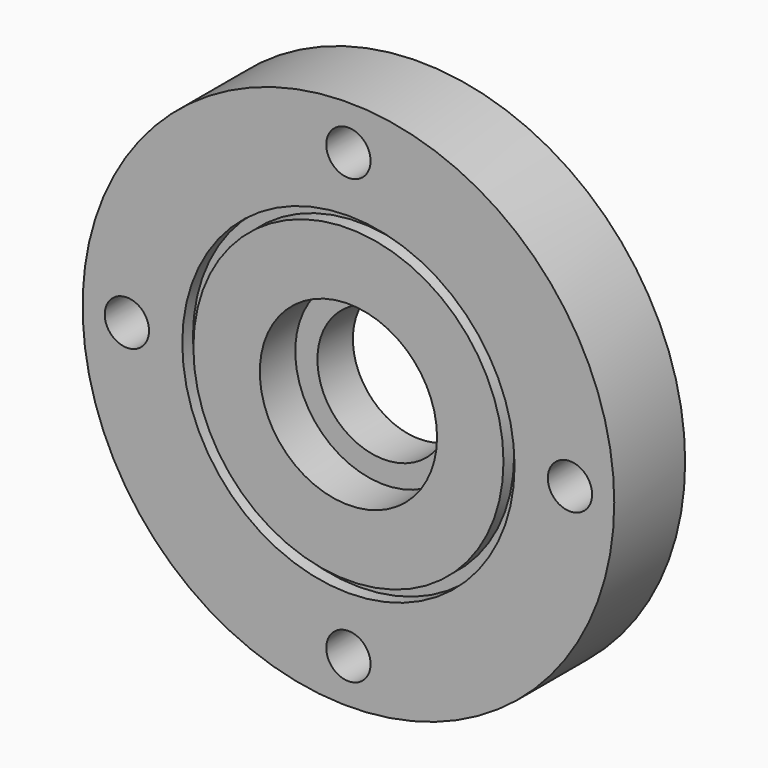
from build123d import *

# Parameters (mm, degrees)
F0_R           = 38.1
F0_R_2         = 9.525
F1_DEPTH       = 12.7
F2_R           = 12.7
F2_R_2         = 9.525
F3_DEPTH       = 6.35
F5_D           = 3.175
F5_CBORE_D     = 6.35
F5_CBORE_DEPTH = 6.35
F6_R           = 23.8125
F6_R_2         = 22.225
F7_DEPTH       = 1.905


with BuildPart() as f1:
    # F0 (on Front) → F1 (new body)
    with BuildSketch(Plane.XZ):
        Circle(F0_R)
        Circle(F0_R_2, mode=Mode.SUBTRACT)
    extrude(amount=F1_DEPTH)

    # F2 (on face) → F3 (cut)
    with BuildSketch(Plane.XZ.offset(12.7)):
        Circle(F2_R)
        Circle(F2_R_2, mode=Mode.SUBTRACT)
    extrude(amount=-F3_DEPTH, mode=Mode.SUBTRACT)

    # F5 (through all)
    with Locations(Plane.XZ.offset(12.7)):
        with Locations((0, 31.75), (-31.75, 0), (31.75, 0), (0, -31.75)):
            CounterBoreHole(F5_D / 2, F5_CBORE_D / 2, F5_CBORE_DEPTH)

    # F6 (on face) → F7 (cut)
    with BuildSketch(Plane.XZ.offset(12.7)):
        Circle(F6_R)
        Circle(F6_R_2, mode=Mode.SUBTRACT)
    extrude(amount=-F7_DEPTH, mode=Mode.SUBTRACT)


solid = f1.part
